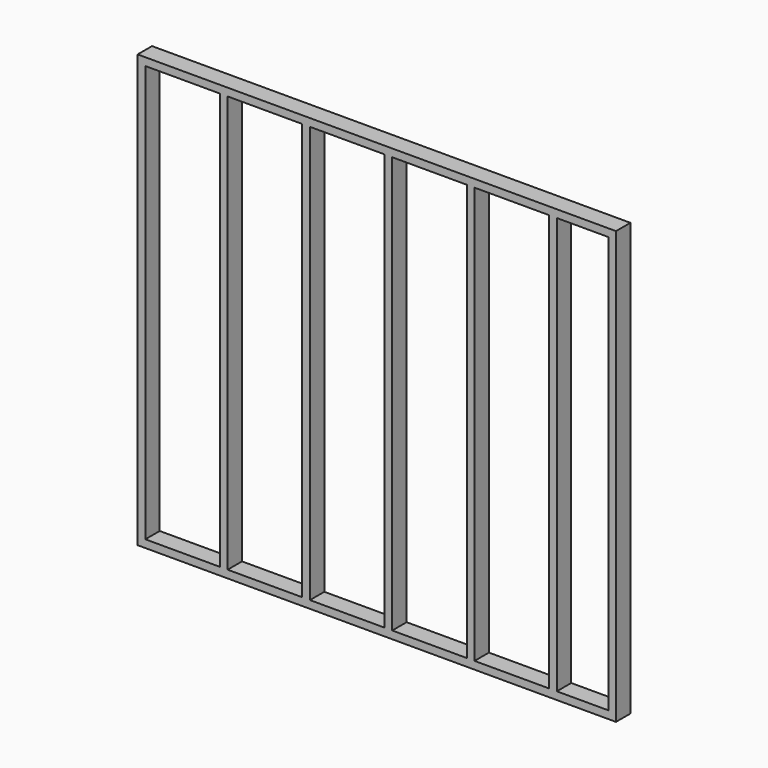
from build123d import *

# Parameters (mm, degrees)
F0_W     = 38.1
F0_H     = 2057.4
F1_DEPTH = 88.9


with BuildPart() as f1:
    # F0 (on Front) → F1 (new body)
    with BuildSketch(Plane.XZ):
        Polygon((0, 38.1), (0, 0), (2362.2, 0), (2362.2, 38.1), (2324.1, 38.1), (2070.1, 38.1), (2032, 38.1), (1663.7, 38.1), (1625.6, 38.1), (1257.3, 38.1), (1219.2, 38.1), (850.9, 38.1), (812.8, 38.1), (444.5, 38.1), (406.4, 38.1), (38.1, 38.1), align=None)
        with Locations((19.05, 1066.8)):
            Rectangle(F0_W, F0_H)
        with Locations((2343.15, 1066.8)):
            Rectangle(F0_W, F0_H)
        Polygon((0, 2133.6), (0, 2095.5), (38.1, 2095.5), (406.4, 2095.5), (444.5, 2095.5), (812.8, 2095.5), (850.9, 2095.5), (1219.2, 2095.5), (1257.3, 2095.5), (1625.6, 2095.5), (1663.7, 2095.5), (2032, 2095.5), (2070.1, 2095.5), (2324.1, 2095.5), (2362.2, 2095.5), (2362.2, 2133.6), align=None)
        with Locations((425.45, 1066.8)):
            Rectangle(F0_W, F0_H)
        with Locations((831.85, 1066.8)):
            Rectangle(F0_W, F0_H)
        with Locations((1238.25, 1066.8)):
            Rectangle(F0_W, F0_H)
        with Locations((1644.65, 1066.8)):
            Rectangle(F0_W, F0_H)
        with Locations((2051.05, 1066.8)):
            Rectangle(F0_W, F0_H)
    extrude(amount=F1_DEPTH)


solid = f1.part
